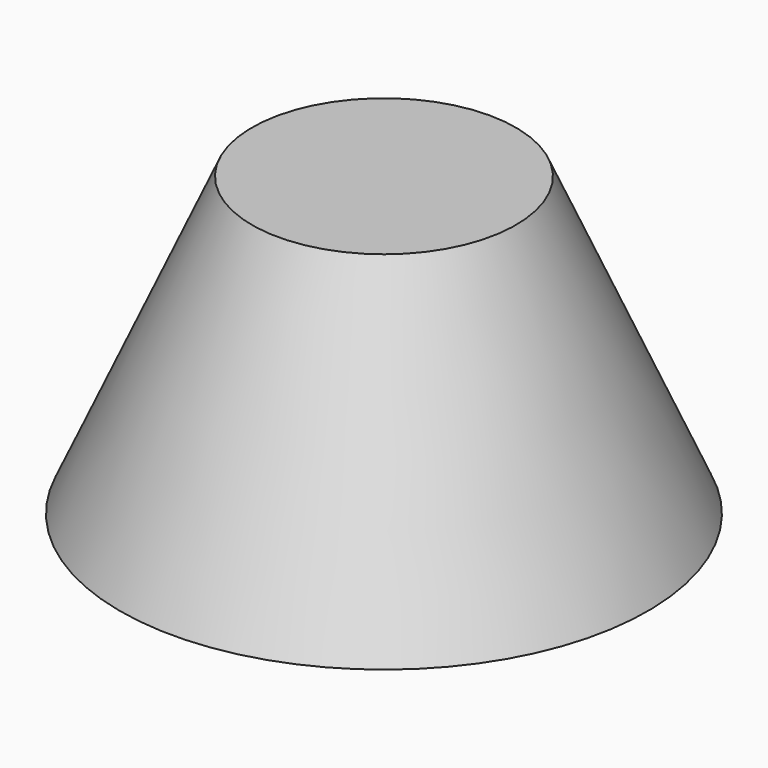
from build123d import *


with BuildPart() as f1:
    # F0 (on Right) → F1 (revolve)
    with BuildSketch(Plane.YZ):
        Polygon((0, 45), (0, 0), (40, 0), (20, 45), align=None)
    revolve(axis=Axis((0, 0, 4.590163), (0, 0, -1)))


solid = f1.part
